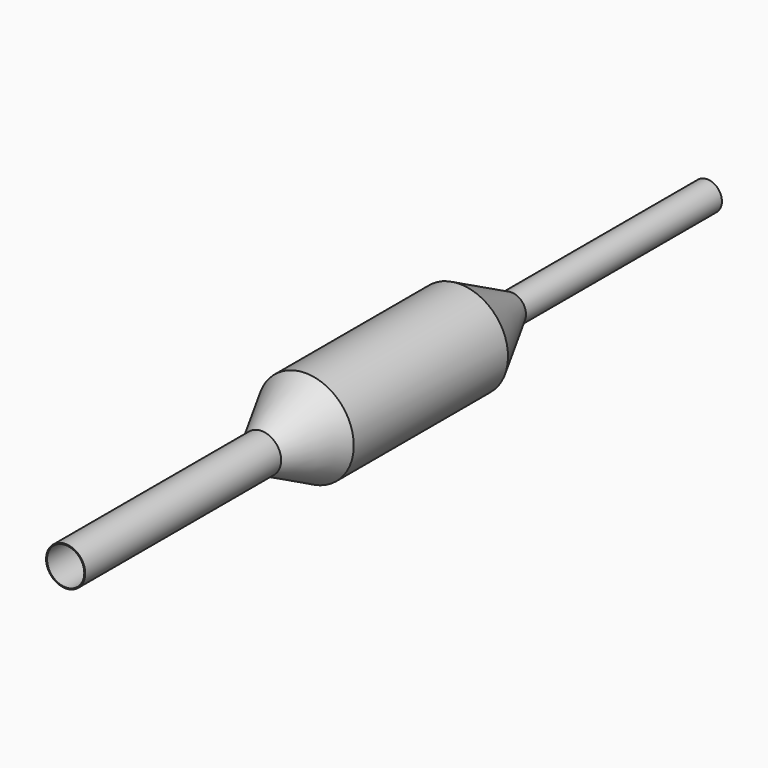
from build123d import *

# Parameters (mm, degrees)
F2_R     = 1.9304
F3_DEPTH = 12.7
F4_R     = 1.4224
F5_DEPTH = 12.7


with BuildPart() as f1:
    # F0 (on Right) → F1 (revolve)
    with BuildSketch(Plane.YZ):
        Polygon((0, 2.032), (0, 0), (83.178809, 0), (83.178809, 1.524), (57.778809, 1.524), (51.101475, 5), (31.101475, 5), (25.4, 2.032), align=None)
    revolve(axis=Axis((0, 41.589404, 0), (0, 1, 0)))

    # F2 (on face) → F3 (cut)
    with BuildSketch(Plane.XZ):
        Circle(F2_R)
    extrude(amount=-F3_DEPTH, mode=Mode.SUBTRACT)

    # F4 (on face) → F5 (cut)
    with BuildSketch(Plane(origin=(0, 83.178809, 0), x_dir=(-1, 0, 0), z_dir=(0, 1, 0))):
        Circle(F4_R)
    extrude(amount=-F5_DEPTH, mode=Mode.SUBTRACT)


solid = f1.part
